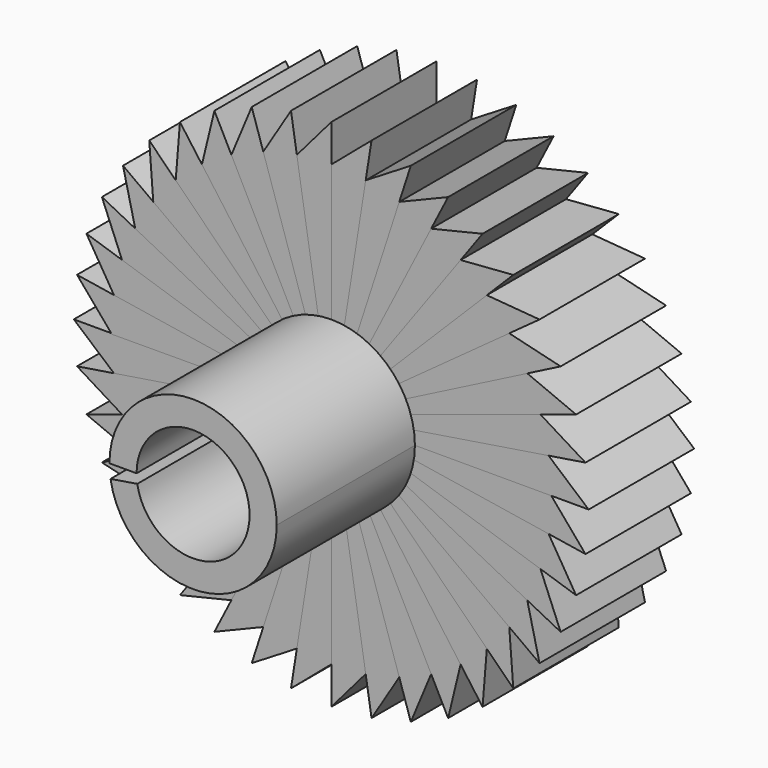
from build123d import *

# Parameters (mm, degrees)
F1_DEPTH = 25.4
F2_COUNT = 40
F3_DEPTH = 58.674


with BuildPart() as f1:
    # F0 (on Front) → F1 (new body)
    with BuildSketch(Plane.XZ):
        with BuildLine():
            ThreePointArc((-15.9052515866, -2.5752623241), (-16.0605194134, -1.2917895513), (-16.1123866659, 0))
            Line((-16.1123866659, 0), (-49.5902378417, 0))
            Line((-49.5902378417, 0), (-41.717222076, -6.7545483135))
            Line((-41.717222076, -6.7545483135), (-15.9052515866, -2.5752623241))
        make_face()
        with BuildLine():
            Line((-10.8881636674, 0), (-16.1123866659, 0))
            ThreePointArc((-16.1123866659, 0), (-16.0605194134, -1.2917895513), (-15.9052515866, -2.5752623241))
            Line((-15.9052515866, -2.5752623241), (-10.7481893302, -1.7402684192))
            ThreePointArc((-10.7481893302, -1.7402684192), (-10.8531136686, -0.8729442974), (-10.8881636674, 0))
        make_face()
    extrude(amount=F1_DEPTH)


with BuildPart() as f2_1:
    # F2: instance of F1
    add(f1.part.rotate(Axis((0, 0, 0), (0, -1, 0)), 1 * 360 / F2_COUNT))


with BuildPart() as f2_2:
    # F2: instance of F1
    add(f1.part.rotate(Axis((0, 0, 0), (0, -1, 0)), 2 * 360 / F2_COUNT))


with BuildPart() as f2_3:
    # F2: instance of F1
    add(f1.part.rotate(Axis((0, 0, 0), (0, -1, 0)), 3 * 360 / F2_COUNT))


with BuildPart() as f2_4:
    # F2: instance of F1
    add(f1.part.rotate(Axis((0, 0, 0), (0, -1, 0)), 4 * 360 / F2_COUNT))


with BuildPart() as f2_5:
    # F2: instance of F1
    add(f1.part.rotate(Axis((0, 0, 0), (0, -1, 0)), 5 * 360 / F2_COUNT))


with BuildPart() as f2_6:
    # F2: instance of F1
    add(f1.part.rotate(Axis((0, 0, 0), (0, -1, 0)), 6 * 360 / F2_COUNT))


with BuildPart() as f2_7:
    # F2: instance of F1
    add(f1.part.rotate(Axis((0, 0, 0), (0, -1, 0)), 7 * 360 / F2_COUNT))


with BuildPart() as f2_8:
    # F2: instance of F1
    add(f1.part.rotate(Axis((0, 0, 0), (0, -1, 0)), 8 * 360 / F2_COUNT))


with BuildPart() as f2_9:
    # F2: instance of F1
    add(f1.part.rotate(Axis((0, 0, 0), (0, -1, 0)), 9 * 360 / F2_COUNT))


with BuildPart() as f2_10:
    # F2: instance of F1
    add(f1.part.rotate(Axis((0, 0, 0), (0, -1, 0)), 10 * 360 / F2_COUNT))


with BuildPart() as f2_11:
    # F2: instance of F1
    add(f1.part.rotate(Axis((0, 0, 0), (0, -1, 0)), 11 * 360 / F2_COUNT))


with BuildPart() as f2_12:
    # F2: instance of F1
    add(f1.part.rotate(Axis((0, 0, 0), (0, -1, 0)), 12 * 360 / F2_COUNT))


with BuildPart() as f2_13:
    # F2: instance of F1
    add(f1.part.rotate(Axis((0, 0, 0), (0, -1, 0)), 13 * 360 / F2_COUNT))


with BuildPart() as f2_14:
    # F2: instance of F1
    add(f1.part.rotate(Axis((0, 0, 0), (0, -1, 0)), 14 * 360 / F2_COUNT))


with BuildPart() as f2_15:
    # F2: instance of F1
    add(f1.part.rotate(Axis((0, 0, 0), (0, -1, 0)), 15 * 360 / F2_COUNT))


with BuildPart() as f2_16:
    # F2: instance of F1
    add(f1.part.rotate(Axis((0, 0, 0), (0, -1, 0)), 16 * 360 / F2_COUNT))


with BuildPart() as f2_17:
    # F2: instance of F1
    add(f1.part.rotate(Axis((0, 0, 0), (0, -1, 0)), 17 * 360 / F2_COUNT))


with BuildPart() as f2_18:
    # F2: instance of F1
    add(f1.part.rotate(Axis((0, 0, 0), (0, -1, 0)), 18 * 360 / F2_COUNT))


with BuildPart() as f2_19:
    # F2: instance of F1
    add(f1.part.rotate(Axis((0, 0, 0), (0, -1, 0)), 19 * 360 / F2_COUNT))


with BuildPart() as f2_20:
    # F2: instance of F1
    add(f1.part.rotate(Axis((0, 0, 0), (0, -1, 0)), 20 * 360 / F2_COUNT))


with BuildPart() as f2_21:
    # F2: instance of F1
    add(f1.part.rotate(Axis((0, 0, 0), (0, -1, 0)), 21 * 360 / F2_COUNT))


with BuildPart() as f2_22:
    # F2: instance of F1
    add(f1.part.rotate(Axis((0, 0, 0), (0, -1, 0)), 22 * 360 / F2_COUNT))


with BuildPart() as f2_23:
    # F2: instance of F1
    add(f1.part.rotate(Axis((0, 0, 0), (0, -1, 0)), 23 * 360 / F2_COUNT))


with BuildPart() as f2_24:
    # F2: instance of F1
    add(f1.part.rotate(Axis((0, 0, 0), (0, -1, 0)), 24 * 360 / F2_COUNT))


with BuildPart() as f2_25:
    # F2: instance of F1
    add(f1.part.rotate(Axis((0, 0, 0), (0, -1, 0)), 25 * 360 / F2_COUNT))


with BuildPart() as f2_26:
    # F2: instance of F1
    add(f1.part.rotate(Axis((0, 0, 0), (0, -1, 0)), 26 * 360 / F2_COUNT))


with BuildPart() as f2_27:
    # F2: instance of F1
    add(f1.part.rotate(Axis((0, 0, 0), (0, -1, 0)), 27 * 360 / F2_COUNT))


with BuildPart() as f2_28:
    # F2: instance of F1
    add(f1.part.rotate(Axis((0, 0, 0), (0, -1, 0)), 28 * 360 / F2_COUNT))


with BuildPart() as f2_29:
    # F2: instance of F1
    add(f1.part.rotate(Axis((0, 0, 0), (0, -1, 0)), 29 * 360 / F2_COUNT))


with BuildPart() as f2_30:
    # F2: instance of F1
    add(f1.part.rotate(Axis((0, 0, 0), (0, -1, 0)), 30 * 360 / F2_COUNT))


with BuildPart() as f2_31:
    # F2: instance of F1
    add(f1.part.rotate(Axis((0, 0, 0), (0, -1, 0)), 31 * 360 / F2_COUNT))


with BuildPart() as f2_32:
    # F2: instance of F1
    add(f1.part.rotate(Axis((0, 0, 0), (0, -1, 0)), 32 * 360 / F2_COUNT))


with BuildPart() as f2_33:
    # F2: instance of F1
    add(f1.part.rotate(Axis((0, 0, 0), (0, -1, 0)), 33 * 360 / F2_COUNT))


with BuildPart() as f2_34:
    # F2: instance of F1
    add(f1.part.rotate(Axis((0, 0, 0), (0, -1, 0)), 34 * 360 / F2_COUNT))


with BuildPart() as f2_35:
    # F2: instance of F1
    add(f1.part.rotate(Axis((0, 0, 0), (0, -1, 0)), 35 * 360 / F2_COUNT))


with BuildPart() as f2_36:
    # F2: instance of F1
    add(f1.part.rotate(Axis((0, 0, 0), (0, -1, 0)), 36 * 360 / F2_COUNT))


with BuildPart() as f2_37:
    # F2: instance of F1
    add(f1.part.rotate(Axis((0, 0, 0), (0, -1, 0)), 37 * 360 / F2_COUNT))


with BuildPart() as f2_38:
    # F2: instance of F1
    add(f1.part.rotate(Axis((0, 0, 0), (0, -1, 0)), 38 * 360 / F2_COUNT))


with BuildPart() as f2_39:
    # F2: instance of F1
    add(f1.part.rotate(Axis((0, 0, 0), (0, -1, 0)), 39 * 360 / F2_COUNT))


with BuildPart() as f3:
    # F0 (on Front) → F3 (new body)
    with BuildSketch(Plane.XZ):
        with BuildLine():
            ThreePointArc((-15.9052515866, -2.5752623241), (1.2917895513, -16.0605194134), (16.1123866659, 0))
            ThreePointArc((16.1123866659, 0), (0, 16.1123866659), (-16.1123866659, 0))
            Line((-16.1123866659, 0), (-10.8881636674, 0))
            ThreePointArc((-10.8881636674, 0), (0, 10.8881636674), (10.8881636674, 0))
            ThreePointArc((10.8881636674, 0), (0.8729442974, -10.8531136686), (-10.7481893302, -1.7402684192))
            Line((-10.7481893302, -1.7402684192), (-15.9052515866, -2.5752623241))
        make_face()
    extrude(amount=F3_DEPTH)


solid = Compound([f1.part, f2_1.part, f2_2.part, f2_3.part, f2_4.part, f2_5.part, f2_6.part, f2_7.part, f2_8.part, f2_9.part, f2_10.part, f2_11.part, f2_12.part, f2_13.part, f2_14.part, f2_15.part, f2_16.part, f2_17.part, f2_18.part, f2_19.part, f2_20.part, f2_21.part, f2_22.part, f2_23.part, f2_24.part, f2_25.part, f2_26.part, f2_27.part, f2_28.part, f2_29.part, f2_30.part, f2_31.part, f2_32.part, f2_33.part, f2_34.part, f2_35.part, f2_36.part, f2_37.part, f2_38.part, f2_39.part, f3.part])
